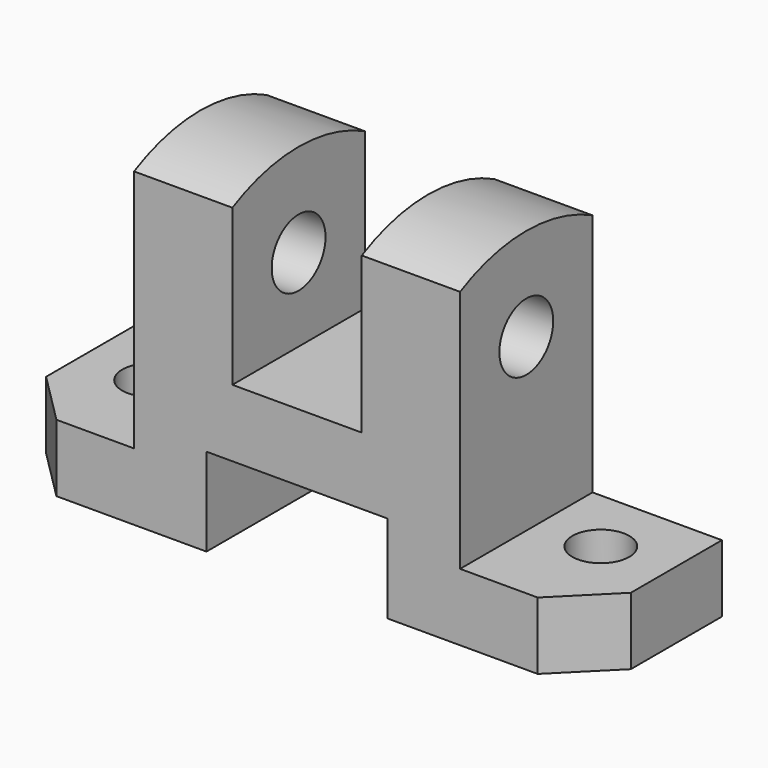
from build123d import *

# Parameters (mm, degrees)
F1_DEPTH  = 32
F2_R      = 5.5
F6_DEPTH  = 25
F7_DEPTH  = 25
F3_R      = 6.5
F8_DEPTH  = 25
F4_R      = 6.5
F9_DEPTH  = 25
F5_R      = 5.5
F10_DEPTH = 25
F11_DEPTH = 25
F12_DEPTH = 63
F13_DEPTH = 25


with BuildPart() as f1:
    # F0 (on Front) → F1 (new body)
    with BuildSketch(Plane.XZ):
        Polygon((44, 60.129), (25, 60.129), (25, 13), (0, 13), (0, 0), (39, 0), (39, 17), (74, 17), (74, 0), (113, 0), (113, 13), (88, 13), (88, 60.129), (69, 60.129), (69, 30), (44, 30), align=None)
    extrude(amount=-F1_DEPTH)

    # F2 (on face) → F6 (cut)
    with BuildSketch(Plane.XY.offset(13)):
        with Locations((100, 19)):
            Circle(F2_R)
    extrude(amount=-F6_DEPTH, mode=Mode.SUBTRACT)

    # F2 (on face) → F7 (cut)
    with BuildSketch(Plane.XY.offset(13)):
        Polygon((113, 10), (103, 0), (113, 0), align=None)
    extrude(amount=-F7_DEPTH, mode=Mode.SUBTRACT)

    # F3 (on face) → F8 (cut)
    with BuildSketch(Plane.YZ.offset(88)):
        with Locations((16, 46)):
            Circle(F3_R)
    extrude(amount=-F8_DEPTH, mode=Mode.SUBTRACT)

    # F4 (on face) → F9 (cut)
    with BuildSketch(Plane.YZ.offset(44)):
        with Locations((16, 46)):
            Circle(F4_R)
    extrude(amount=-F9_DEPTH, mode=Mode.SUBTRACT)

    # F5 (on face) → F10 (cut)
    with BuildSketch(Plane.XY.offset(13)):
        with Locations((13, 19)):
            Circle(F5_R)
    extrude(amount=-F10_DEPTH, mode=Mode.SUBTRACT)

    # F5 (on face) → F11 (cut)
    with BuildSketch(Plane.XY.offset(13)):
        Polygon((10, 0), (0, 10), (0, 0), align=None)
    extrude(amount=-F11_DEPTH, mode=Mode.SUBTRACT)

    # F3 (on face) → F12 (join)
    with BuildSketch(Plane.YZ.offset(88)):
        with BuildLine():
            Line((0, 60.129), (32, 60.129))
            ThreePointArc((32, 60.129), (16, 64.000235), (0, 60.129))
        make_face()
    extrude(amount=-F12_DEPTH)

    # F4 (on face) → F13 (cut)
    with BuildSketch(Plane.YZ.offset(44)):
        with BuildLine():
            Line((0, 60.129), (32, 60.129))
            ThreePointArc((32, 60.129), (16, 64.000235), (0, 60.129))
        make_face()
    extrude(amount=F13_DEPTH, mode=Mode.SUBTRACT)


solid = f1.part
